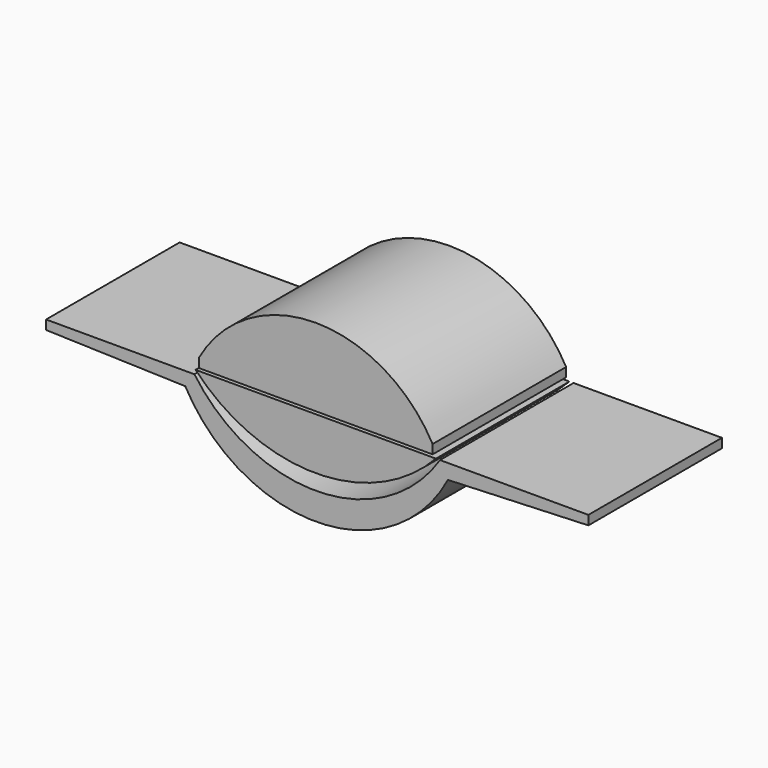
from build123d import *

# Parameters (mm, degrees)
F1_DEPTH = 225
F2_DEPTH = 225


with BuildPart() as f1:
    # F0 (on Front) → F1 (new body, symmetric)
    with BuildSketch(Plane.XZ):
        with BuildLine():
            Line((315, 262.00933), (315, 286.571615))
            ThreePointArc((315, 286.571615), (0, 472.00933), (-315, 286.571615))
            Line((-315, 286.571615), (-315, 262.00933))
            Line((-315, 262.00933), (315, 262.00933))
        make_face()
    extrude(amount=F1_DEPTH, both=True)


with BuildPart() as f2:
    # F0 (on Front) → F2 (new body, symmetric)
    with BuildSketch(Plane.XZ):
        with BuildLine():
            Line((-727.089481, 243.281322), (-727.089481, 218.281322))
            Line((-727.089481, 218.281322), (-351.936444, 206.955931))
            ThreePointArc((-351.936444, 206.955931), (4.515733, 0.025319), (356.237888, 214.897275))
            Line((356.237888, 214.897275), (735.020074, 230.022901))
            Line((735.020074, 230.022901), (735.020074, 255.022901))
            Line((735.020074, 255.022901), (335.020074, 255.022901))
            ThreePointArc((335.020074, 255.022901), (7.084472, 73.26129), (-327.089481, 243.281322))
            Line((-327.089481, 243.281322), (-727.089481, 243.281322))
        make_face()
        with BuildLine():
            Line((323.995329, 254.879402), (-323.995329, 254.879402))
            ThreePointArc((-323.995329, 254.879402), (0, 114.879402), (323.995329, 254.879402))
        make_face()
    extrude(amount=F2_DEPTH, both=True)


solid = Compound([f1.part, f2.part])
